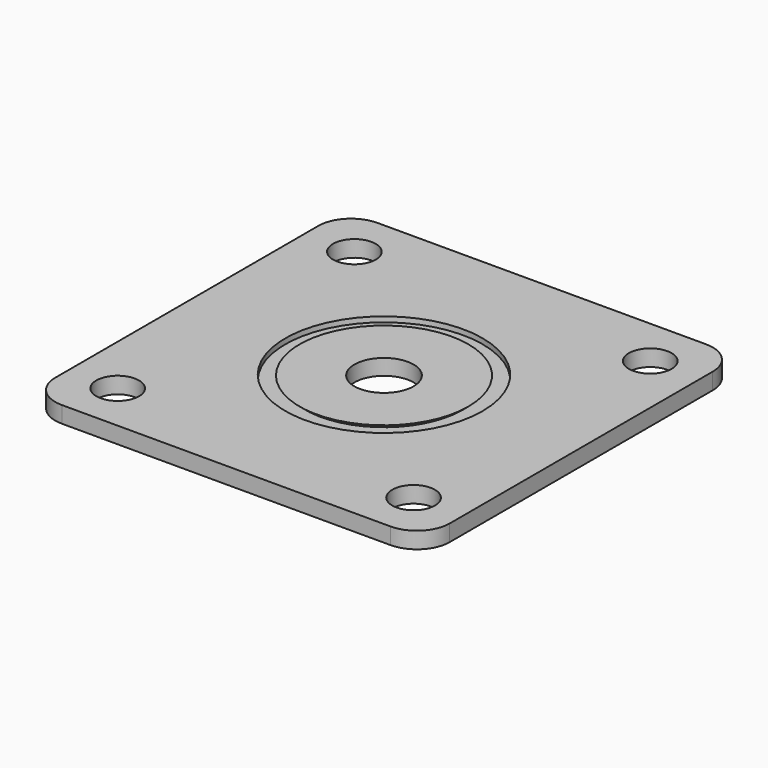
from build123d import *

# Parameters (mm, degrees)
F0_W     = 60
F0_H     = 60
F1_DEPTH = 2.5
F2_R     = 3.25
F3_DEPTH = 25
F4_R     = 15
F5_DEPTH = 0.8
F6_R     = 12
F7_DEPTH = 0.7
F7_TAPER = -50
F8_R     = 4.5
F9_DEPTH = 25
F10_R    = 5


with BuildPart() as f1:
    # F0 (on Top) → F1 (new body)
    with BuildSketch(Plane.XY):
        with Locations((22.8730514646, -21.4082733154)):
            Rectangle(F0_W, F0_H)
    extrude(amount=F1_DEPTH)

    # F2 (on face) → F3 (cut)
    with BuildSketch(Plane.XY.offset(2.5)):
        with Locations((0.3730514646, 1.0917266846)):
            Circle(F2_R)
        with Locations((45.3730514646, 1.0917266846)):
            Circle(F2_R)
        with Locations((45.3730514646, -43.9082733154)):
            Circle(F2_R)
        with Locations((0.3730514646, -43.9082733154)):
            Circle(F2_R)
    extrude(amount=-F3_DEPTH, mode=Mode.SUBTRACT)

    # F4 (on face) → F5 (cut)
    with BuildSketch(Plane.XY.offset(2.5)):
        with Locations((22.8730514646, -21.4082733154)):
            Circle(F4_R)
    extrude(amount=-F5_DEPTH, mode=Mode.SUBTRACT)

    # F6 (on face) → F7 (join)
    with BuildSketch(Plane.XY.offset(1.7)):
        with Locations((22.8730514646, -21.4082733154)):
            Circle(F6_R)
    extrude(amount=F7_DEPTH, taper=F7_TAPER)

    # F8 (on face) → F9 (cut)
    with BuildSketch(Plane.XY.offset(2.4)):
        with Locations((22.8730514646, -21.4082733154)):
            Circle(F8_R)
    extrude(amount=-F9_DEPTH, mode=Mode.SUBTRACT)

    # F10
    f10_edges = [f1.edges().sort_by_distance(p)[0] for p in [
        (-7.126949, -51.408273, 1.25),
        (52.873051, -51.408273, 1.25),
        (52.873051, 8.591727, 1.25),
        (-7.126949, 8.591727, 1.25),
    ]]
    fillet(f10_edges, radius=F10_R)


solid = f1.part
